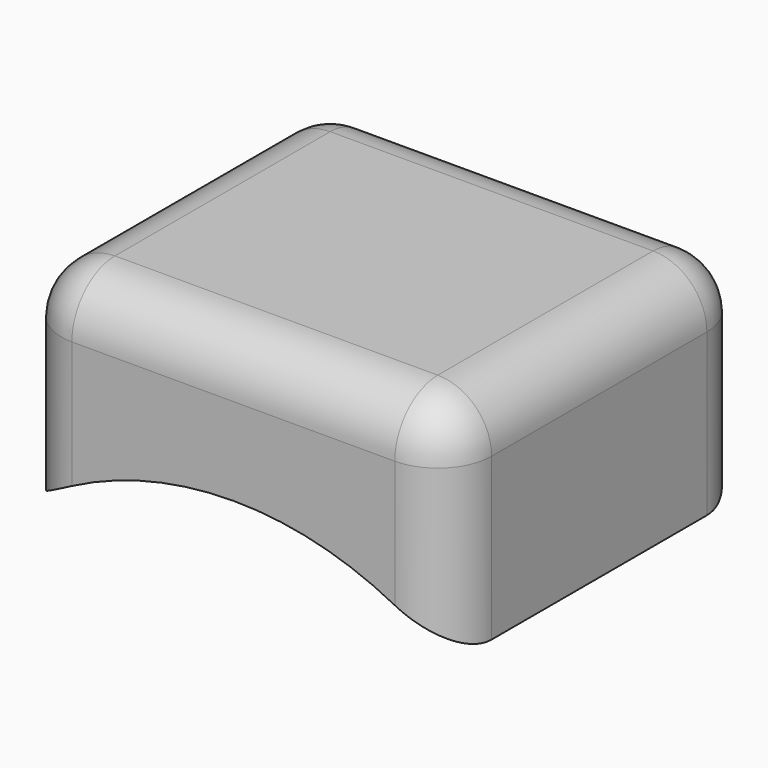
from build123d import *

# Parameters (mm, degrees)
F1_DEPTH = 7
F2_R     = 1


with BuildPart() as f1:
    # F0 (on Front) → F1 (new body)
    with BuildSketch(Plane.XZ):
        with BuildLine():
            Line((4, 9.123475), (-4, 9.123475))
            Line((-4, 9.123475), (-4, 5.123475))
            ThreePointArc((-4, 5.123475), (0, 6.5), (4, 5.123475))
            Line((4, 5.123475), (4, 9.123475))
        make_face()
    extrude(amount=F1_DEPTH)

    # F2
    f2_edges = [f1.edges().sort_by_distance(p)[0] for p in [
        (-4, -7, 7.123475),
        (4, -7, 7.123475),
        (4, 0, 7.123475),
        (-4, 0, 7.123475),
        (4, -3.5, 9.123475),
        (-4, -3.5, 9.123475),
        (0, 0, 9.123475),
        (0, -7, 9.123475),
    ]]
    fillet(f2_edges, radius=F2_R)


solid = f1.part
